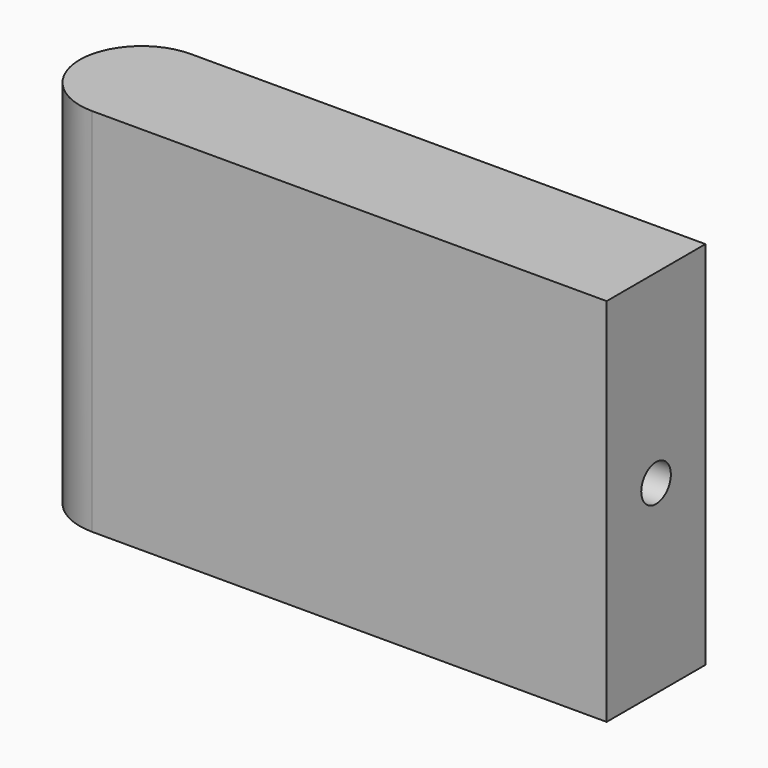
from build123d import *

# Parameters (mm, degrees)
F1_DEPTH = 18
F3_D     = 1.8
F3_DEPTH = 18
F3_TIP   = 0.5407745571


with BuildPart() as f1:
    # F0 (on Top) → F1 (new body)
    with BuildSketch(Plane.XY):
        with BuildLine():
            Line((14, 3), (-11, 3))
            ThreePointArc((-11, 3), (-14, 0), (-11, -3))
            Line((-11, -3), (14, -3))
            Line((14, -3), (14, 3))
        make_face()
    extrude(amount=F1_DEPTH)

    # F3
    with Locations(Plane.YZ.offset(14)):
        with Locations((0, 9)):
            Hole(F3_D / 2, depth=F3_DEPTH)
            with Locations((0, 0, -(F3_DEPTH + F3_TIP / 2))):  # 118° drill point
                Cone(0, F3_D / 2, F3_TIP, mode=Mode.SUBTRACT)


solid = f1.part
